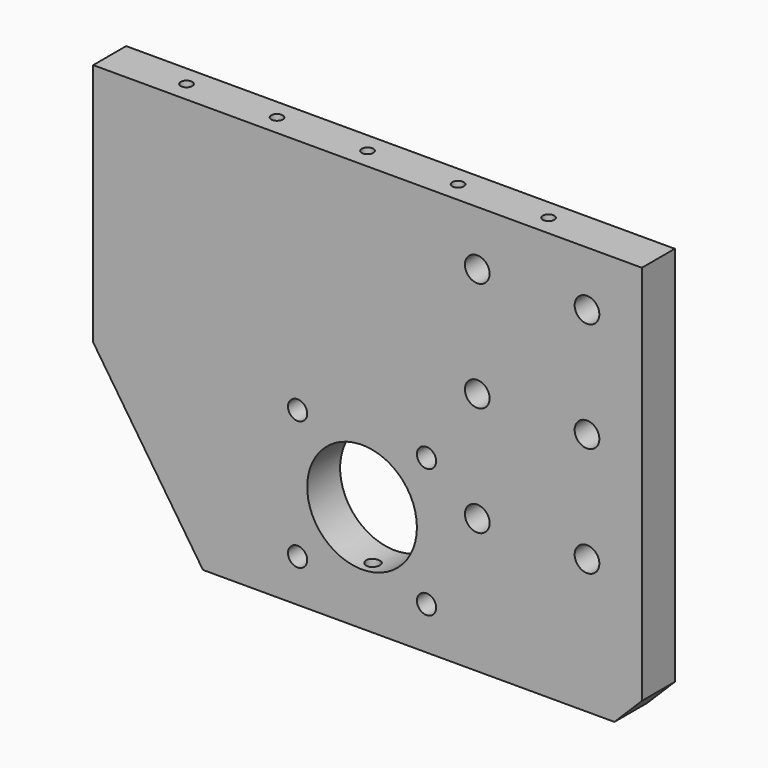
from build123d import *

# Parameters (mm, degrees)
F0_W      = 200
F0_H      = 200
F1_DEPTH  = 15
F2_R      = 20
F3_DEPTH  = 25
F4_DEPTH  = 25
F5_DEPTH  = 26
F6_DEPTH  = 30
F7_DEPTH  = 29
F9_DEPTH  = 25
F11_D     = 9
F12_D     = 7
F14_D     = 5
F14_DEPTH = 20
F14_TIP   = 1.5021515476
F15_DEPTH = 4
F16_DEPTH = 55
F18_DEPTH = 25
F20_D     = 4.2
F20_DEPTH = 15
F20_TIP   = 1.2618073


with BuildPart() as f1:
    # F0 (on Front) → F1 (new body)
    with BuildSketch(Plane.XZ):
        with Locations((100, 100)):
            Rectangle(F0_W, F0_H)
    extrude(amount=F1_DEPTH)

    # F2 (on face) → F3 (cut)
    with BuildSketch(Plane.XZ.offset(15)):
        with Locations((98, 90)):
            Circle(F2_R)
    extrude(amount=-F3_DEPTH, mode=Mode.SUBTRACT)

    # F4 (cut): a face of the model
    f4_faces = [f1.faces().sort_by_distance(p)[0] for p in [
        (100, -7.5, 0),
    ]]
    extrude(f4_faces, amount=-F4_DEPTH, mode=Mode.SUBTRACT)

    # F5 (cut): a face of the model
    f5_faces = [f1.faces().sort_by_distance(p)[0] for p in [
        (100, -7.5, 25),
    ]]
    extrude(f5_faces, amount=-F5_DEPTH, mode=Mode.SUBTRACT)

    # F6 (cut): a face of the model
    f6_faces = [f1.faces().sort_by_distance(p)[0] for p in [
        (0, -7.5, 125.5),
    ]]
    extrude(f6_faces, amount=-F6_DEPTH, mode=Mode.SUBTRACT)

    # F7 (cut): a face of the model
    f7_faces = [f1.faces().sort_by_distance(p)[0] for p in [
        (30, -7.5, 125.5),
    ]]
    extrude(f7_faces, amount=-F7_DEPTH, mode=Mode.SUBTRACT)

    # F8 (on face) → F9 (cut)
    with BuildSketch(Plane.XZ.offset(15)):
        Polygon((200, 51), (200, 61), (190, 51), align=None)
    extrude(amount=-F9_DEPTH, mode=Mode.SUBTRACT)

    # F11 (through all)
    with Locations(Plane.XZ.offset(15)):
        with Locations((180, 100), (180, 140), (180, 180), (140, 180), (140, 140), (140, 100)):
            Hole(F11_D / 2)

    # F12 (through all)
    with Locations(Plane.XZ.offset(15)):
        with Locations((121.5, 66.5), (121.5, 113.5), (74.5, 66.5), (74.5, 113.5)):
            Hole(F12_D / 2)

    # F14
    with Locations(Plane(origin=(0, 0, 51), x_dir=(1, 0, 0), z_dir=(0, 0, -1))):
        with Locations((98, 10)):
            Hole(F14_D / 2, depth=F14_DEPTH)
            with Locations((0, 0, -(F14_DEPTH + F14_TIP / 2))):  # 118° drill point
                Cone(0, F14_D / 2, F14_TIP, mode=Mode.SUBTRACT)

    # F15 (add): a face of the model
    f15_faces = [f1.faces().sort_by_distance(p)[0] for p in [
        (59, -7.5, 125.5),
    ]]
    extrude(f15_faces, amount=F15_DEPTH)

    # F16 (add): a face of the model
    f16_faces = [f1.faces().sort_by_distance(p)[0] for p in [
        (55, -7.5, 125.5),
    ]]
    extrude(f16_faces, amount=F16_DEPTH)

    # F17 (on face) → F18 (cut)
    with BuildSketch(Plane.XZ.offset(15)):
        Polygon((0, 111), (0, 51), (40, 51), align=None)
    extrude(amount=-F18_DEPTH, mode=Mode.SUBTRACT)

    # F20
    with Locations(Plane.XY.offset(200)):
        with Locations((28, -7.5), (61, -7.5), (94, -7.5), (127, -7.5), (160, -7.5)):
            Hole(F20_D / 2, depth=F20_DEPTH)
            with Locations((0, 0, -(F20_DEPTH + F20_TIP / 2))):  # 118° drill point
                Cone(0, F20_D / 2, F20_TIP, mode=Mode.SUBTRACT)


solid = f1.part
